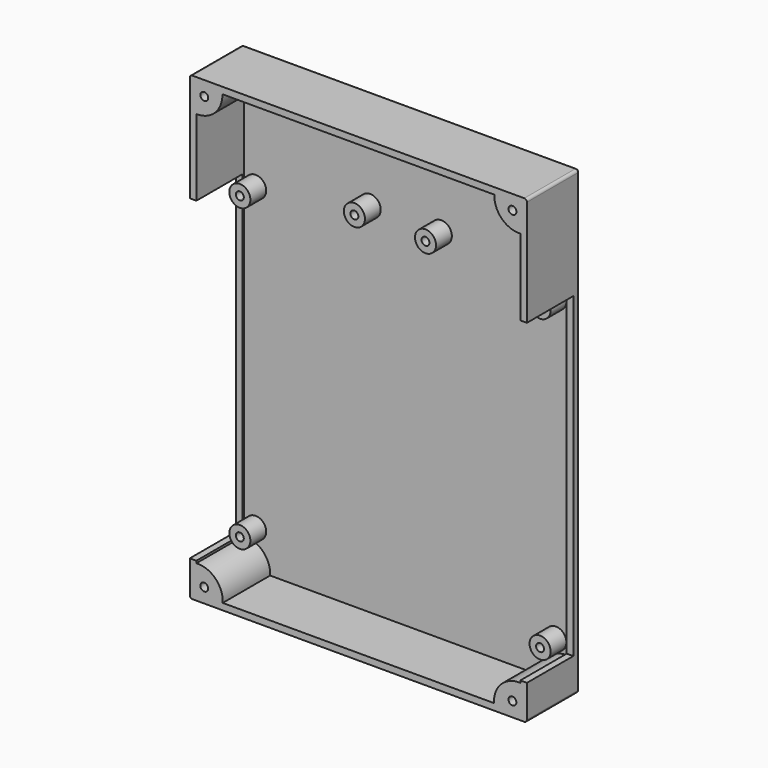
from build123d import *

# Parameters (mm, degrees)
F1_W      = 128
F1_H      = 175
F2_DEPTH  = 25
F3_T      = -2.5
F4_R      = 4
F4_R_2    = 1.5
F5_DEPTH  = 10
F7_W      = 6.963276
F7_H      = 120.338105
F8_DEPTH  = 35
F9_R      = 1.5
F10_DEPTH = 25
F11_R     = 1


with BuildPart() as f2:
    # F1 (on Front) → F2 (new body)
    with BuildSketch(Plane.XZ):
        with Locations((0, 36.5)):
            Rectangle(F1_W, F1_H)
    extrude(amount=F2_DEPTH)

    # F3
    f3_openings = [f2.faces().sort_by_distance(p)[0] for p in [
        (0, -25, 36.5),
    ]]
    offset(amount=F3_T, openings=f3_openings)

    # F4 (on Front) → F5 (join)
    with BuildSketch(Plane.XZ):
        with Locations((-57, 79.671152)):
            Circle(F4_R)
        with Locations((-57, 79.671152)):
            Circle(F4_R_2, mode=Mode.SUBTRACT)
        with Locations((57, 79.671152)):
            Circle(F4_R)
        with Locations((57, 79.671152)):
            Circle(F4_R_2, mode=Mode.SUBTRACT)
        with Locations((57, -34.24717)):
            Circle(F4_R)
        with Locations((57, -34.24717)):
            Circle(F4_R_2, mode=Mode.SUBTRACT)
        with Locations((-57, -34.328848)):
            Circle(F4_R)
        with Locations((-57, -34.328848)):
            Circle(F4_R_2, mode=Mode.SUBTRACT)
        with Locations((-13.5, 117.413834)):
            Circle(F4_R)
        with Locations((-13.5, 117.413834)):
            Circle(F4_R_2, mode=Mode.SUBTRACT)
        with Locations((13.5, 117.413834)):
            Circle(F4_R)
        with Locations((13.5, 117.413834)):
            Circle(F4_R_2, mode=Mode.SUBTRACT)
        with Locations((-13.5, 87.413834)):
            Circle(F4_R)
        with Locations((-13.5, 87.413834)):
            Circle(F4_R_2, mode=Mode.SUBTRACT)
        with Locations((13.5, 87.413834)):
            Circle(F4_R)
        with Locations((13.5, 87.413834)):
            Circle(F4_R_2, mode=Mode.SUBTRACT)
    extrude(amount=F5_DEPTH)

    # F7 (on offset) → F8 (cut)
    with BuildSketch(Plane.XZ.offset(3)):
        with Locations((-64.73311, 22.50288)):
            Rectangle(F7_W, F7_H)
        with Locations((64.73311, 22.50288)):
            Rectangle(F7_W, F7_H)
    extrude(amount=F8_DEPTH, mode=Mode.SUBTRACT)

    # F9 (on Front) → F10 (join)
    with BuildSketch(Plane.XZ):
        with BuildLine():
            Line((-61.5, -38.5), (-61.5, -48.5))
            Line((-61.5, -48.5), (-51.5, -48.5))
            ThreePointArc((-51.5, -48.5), (-54.260082, -41.260082), (-61.5, -38.5))
        make_face()
        with Locations((-58.5, -45.5)):
            Circle(F9_R, mode=Mode.SUBTRACT)
        with BuildLine():
            ThreePointArc((61.5, -38.5), (54.260082, -41.260082), (51.5, -48.5))
            Line((51.5, -48.5), (61.5, -48.5))
            Line((61.5, -48.5), (61.5, -38.5))
        make_face()
        with Locations((58.5, -45.5)):
            Circle(F9_R, mode=Mode.SUBTRACT)
        with BuildLine():
            ThreePointArc((-61.645352, 111.683935), (-54.405433, 114.444017), (-51.645352, 121.683935))
            Line((-51.645352, 121.683935), (-61.645352, 121.683935))
            Line((-61.645352, 121.683935), (-61.645352, 111.683935))
        make_face()
        with Locations((-58.5, 118.5)):
            Circle(F9_R, mode=Mode.SUBTRACT)
        with BuildLine():
            Line((61.645352, 111.683935), (61.645352, 121.683935))
            Line((61.645352, 121.683935), (51.645352, 121.683935))
            ThreePointArc((51.645352, 121.683935), (54.405433, 114.444017), (61.645352, 111.683935))
        make_face()
        with Locations((58.5, 118.5)):
            Circle(F9_R, mode=Mode.SUBTRACT)
    extrude(amount=F10_DEPTH)

    # F11
    f11_edges = [f2.edges().sort_by_distance(p)[0] for p in [
        (-64, -12.5, 124),
        (64, -12.5, 124),
        (0, 0, 124),
        (64, 0, 36.5),
        (0, 0, -51),
        (64, -12.5, -51),
        (-64, -12.5, -51),
        (-64, 0, 36.5),
    ]]
    fillet(f11_edges, radius=F11_R)


solid = f2.part
